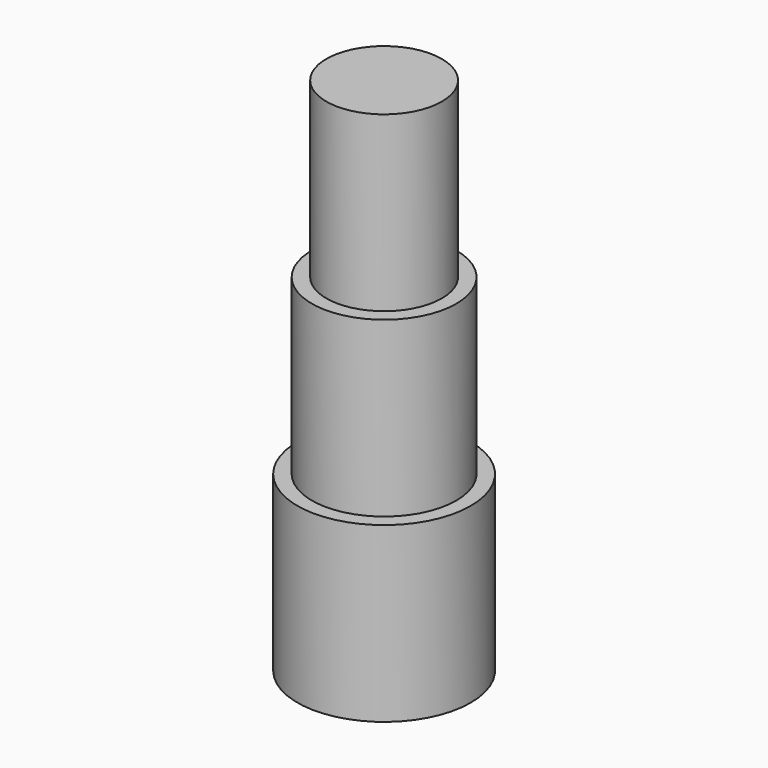
from build123d import *

# Parameters (mm, degrees)
F1_R     = 1.25
F2_DEPTH = 6
F0_R     = 1
F3_DEPTH = 9
F4_R     = 1.5
F5_DEPTH = 3
F6_R     = 0.6
F7_DEPTH = 3


with BuildPart() as f2:
    # F1 (on Top) → F2 (new body)
    with BuildSketch(Plane.XY):
        Circle(F1_R)
    extrude(amount=F2_DEPTH)

    # F0 (on Top) → F3 (join)
    with BuildSketch(Plane.XY):
        Circle(F0_R)
    extrude(amount=F3_DEPTH)

    # F4 (on Top) → F5 (join)
    with BuildSketch(Plane.XY):
        Circle(F4_R)
    extrude(amount=F5_DEPTH)

    # F6 (on Top) → F7 (cut)
    with BuildSketch(Plane.XY):
        Circle(F6_R)
    extrude(amount=F7_DEPTH, mode=Mode.SUBTRACT)


solid = f2.part
